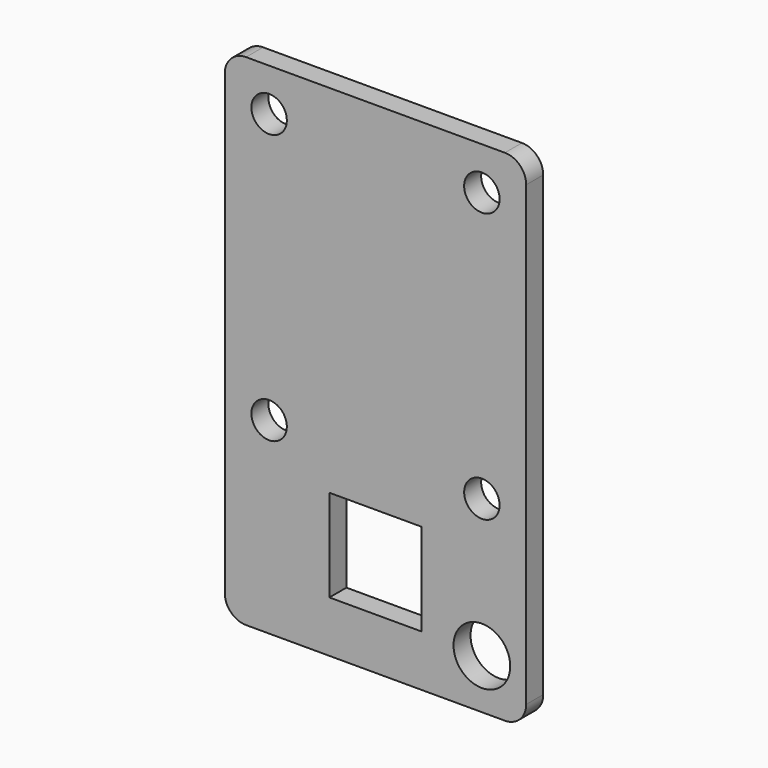
from build123d import *

# Parameters (mm, degrees)
F0_W     = 42.5
F0_H     = 70.5
F0_R     = 2.5
F0_W_2   = 13
F0_H_2   = 13
F0_R_2   = 4
F1_DEPTH = 3
F2_R     = 3


with BuildPart() as f1:
    # F0 (on Front) → F1 (new body)
    with BuildSketch(Plane.XZ):
        with Locations((-15, 28.25)):
            Rectangle(F0_W, F0_H)
        with Locations((-30, 19.5)):
            Circle(F0_R, mode=Mode.SUBTRACT)
        with Locations((-15, 6.75)):
            Rectangle(F0_W_2, F0_H_2, mode=Mode.SUBTRACT)
        Circle(F0_R_2, mode=Mode.SUBTRACT)
        with Locations((0, 19.5)):
            Circle(F0_R, mode=Mode.SUBTRACT)
        with Locations((-30, 57.5)):
            Circle(F0_R, mode=Mode.SUBTRACT)
        with Locations((0, 57.5)):
            Circle(F0_R, mode=Mode.SUBTRACT)
    extrude(amount=-F1_DEPTH)

    # F2
    f2_edges = [f1.edges().sort_by_distance(p)[0] for p in [
        (-36.25, 1.5, 63.5),
        (6.25, 1.5, 63.5),
        (6.25, 1.5, -7),
        (-36.25, 1.5, -7),
    ]]
    fillet(f2_edges, radius=F2_R)


solid = f1.part
